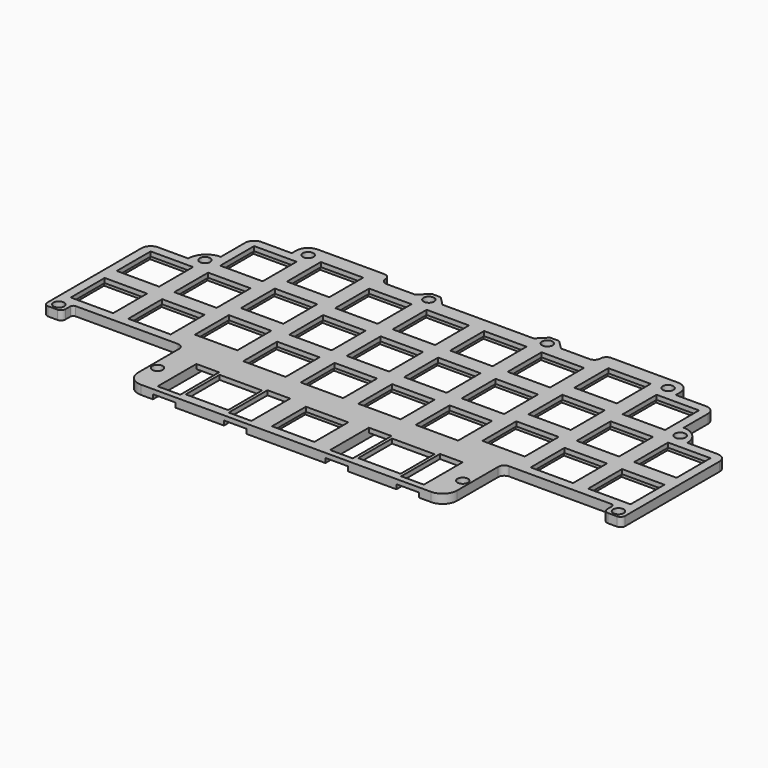
from build123d import *

# Parameters (mm, degrees)
PAD004_DEPTH    = 3
SKETCH023_W     = 14.05
SKETCH023_H     = 14.05
SKETCH023_W_2   = 7.5
SKETCH023_H_2   = 16.05
POCKET013_DEPTH = 5
SKETCH024_W     = 16
SKETCH024_H     = 16
POCKET014_DEPTH = 1.5
SKETCH027_R     = 1.75
POCKET015_DEPTH = 5


with BuildPart() as part:
    # Sketch028 → Pad004 (new body)
    with BuildSketch(Plane.XY):
        with BuildLine():
            Line((-52.875, -5.2), (-52.875, 11.8125))
            ThreePointArc((-52.875, 11.8125), (-53.460786, 13.226714), (-54.875, 13.8125))
            Line((-54.875, 13.8125), (-88.725, 13.8125))
            ThreePointArc((-88.725, 13.8125), (-89.432107, 13.519607), (-89.725, 12.8125))
            Line((-89.725, 12.8125), (-89.725, 10.8125))
            ThreePointArc((-91.225, 9.3125), (-90.16434, 9.75184), (-89.725, 10.8125))
            Line((-91.225, 9.3125), (-94.225, 9.3125))
            ThreePointArc((-95.725, 10.8125), (-95.28566, 9.75184), (-94.225, 9.3125))
            Line((-95.725, 10.8125), (-95.725, 49.8625))
            ThreePointArc((-92.725, 52.8625), (-94.84632, 51.98382), (-95.725, 49.8625))
            Line((-92.725, 52.8625), (-82.675, 52.8625))
            ThreePointArc((-76.675, 58.8625), (-80.917641, 57.105141), (-82.675, 52.8625))
            Line((-76.675, 58.8625), (-76.675, 68.9125))
            ThreePointArc((-73.675, 71.9125), (-75.79632, 71.03382), (-76.675, 68.9125))
            Line((-73.675, 71.9125), (-63.625, 71.9125))
            Line((-63.625, 73.7225), (-63.625, 71.9125))
            ThreePointArc((-59.625, 77.7225), (-62.453427, 76.550927), (-63.625, 73.7225))
            Line((-59.625, 77.7225), (-37.625, 77.7225))
            ThreePointArc((-35.625, 75.7225), (-36.210786, 77.136714), (-37.625, 77.7225))
            ThreePointArc((-35.625, 75.7225), (-35.039214, 74.308286), (-33.625, 73.7225))
            Line((-33.625, 73.7225), (-24.125, 73.7225))
            Line((-24.125, 73.7225), (-21.125, 76.7225))
            Line((-21.125, 76.7225), (-18.125, 76.7225))
            Line((-18.125, 76.7225), (-15.125, 73.7225))
            Line((-15.125, 73.7225), (15.125, 73.7225))
            Line((15.125, 73.7225), (18.125, 76.7225))
            Line((18.125, 76.7225), (21.125, 76.7225))
            Line((21.125, 76.7225), (24.125, 73.7225))
            Line((24.125, 73.7225), (33.625, 73.7225))
            ThreePointArc((33.625, 73.7225), (35.039214, 74.308286), (35.625, 75.7225))
            ThreePointArc((37.625, 77.7225), (36.210786, 77.136714), (35.625, 75.7225))
            Line((37.625, 77.7225), (59.625, 77.7225))
            ThreePointArc((63.625, 73.7225), (62.453427, 76.550927), (59.625, 77.7225))
            Line((63.625, 73.7225), (63.625, 71.9125))
            Line((63.625, 71.9125), (73.675, 71.9125))
            ThreePointArc((76.675, 68.9125), (75.79632, 71.03382), (73.675, 71.9125))
            Line((76.675, 68.9125), (76.675, 58.8625))
            ThreePointArc((82.675, 52.8625), (80.917641, 57.105141), (76.675, 58.8625))
            Line((82.675, 52.8625), (92.725, 52.8625))
            ThreePointArc((95.725, 49.8625), (94.84632, 51.98382), (92.725, 52.8625))
            Line((95.725, 49.8625), (95.725, 10.8125))
            ThreePointArc((94.225, 9.3125), (95.28566, 9.75184), (95.725, 10.8125))
            Line((94.225, 9.3125), (91.225, 9.3125))
            ThreePointArc((89.725, 10.8125), (90.16434, 9.75184), (91.225, 9.3125))
            Line((89.725, 10.8125), (89.725, 12.8125))
            ThreePointArc((89.725, 12.8125), (89.432107, 13.519607), (88.725, 13.8125))
            Line((88.725, 13.8125), (54.875, 13.8125))
            ThreePointArc((54.875, 13.8125), (53.460786, 13.226714), (52.875, 11.8125))
            Line((52.875, 11.8125), (52.875, -5.2))
            ThreePointArc((48.075, -10), (51.469113, -8.594113), (52.875, -5.2))
            Line((48.075, -10), (-48.075, -10))
            ThreePointArc((-52.875, -5.2), (-51.469113, -8.594113), (-48.075, -10))
        make_face()
    extrude(amount=PAD004_DEPTH)

    # Sketch023 → Pocket013 (cut)
    with BuildSketch(Plane.XY):
        with Locations((-85.725, 42.8625)):
            Rectangle(SKETCH023_W, SKETCH023_H)
        with Locations((-85.725, 23.8125)):
            Rectangle(SKETCH023_W, SKETCH023_H)
        with Locations((-66.675, 23.8125)):
            Rectangle(SKETCH023_W, SKETCH023_H)
        with Locations((-66.675, 42.8625)):
            Rectangle(SKETCH023_W, SKETCH023_H)
        with Locations((-66.675, 61.9125)):
            Rectangle(SKETCH023_W, SKETCH023_H)
        with Locations((-47.625, 65.7225)):
            Rectangle(SKETCH023_W, SKETCH023_H)
        with Locations((-47.625, 46.6725)):
            Rectangle(SKETCH023_W, SKETCH023_H)
        with Locations((-47.625, 27.6225)):
            Rectangle(SKETCH023_W, SKETCH023_H)
        with Locations((-28.575, 23.8125)):
            Rectangle(SKETCH023_W, SKETCH023_H)
        with Locations((-28.575, 42.8625)):
            Rectangle(SKETCH023_W, SKETCH023_H)
        with Locations((-28.575, 61.9125)):
            Rectangle(SKETCH023_W, SKETCH023_H)
        with Locations((-9.525, 61.9125)):
            Rectangle(SKETCH023_W, SKETCH023_H)
        with Locations((9.525, 61.9125)):
            Rectangle(SKETCH023_W, SKETCH023_H)
        with Locations((28.575, 61.9125)):
            Rectangle(SKETCH023_W, SKETCH023_H)
        with Locations((47.625, 65.7225)):
            Rectangle(SKETCH023_W, SKETCH023_H)
        with Locations((66.675, 61.9125)):
            Rectangle(SKETCH023_W, SKETCH023_H)
        with Locations((-9.525, 42.8625)):
            Rectangle(SKETCH023_W, SKETCH023_H)
        with Locations((-9.525, 23.8125)):
            Rectangle(SKETCH023_W, SKETCH023_H)
        with Locations((9.525, 42.8625)):
            Rectangle(SKETCH023_W, SKETCH023_H)
        with Locations((28.575, 42.8625)):
            Rectangle(SKETCH023_W, SKETCH023_H)
        with Locations((9.525, 23.8125)):
            Rectangle(SKETCH023_W, SKETCH023_H)
        with Locations((28.575, 23.8125)):
            Rectangle(SKETCH023_W, SKETCH023_H)
        with Locations((47.625, 46.6725)):
            Rectangle(SKETCH023_W, SKETCH023_H)
        with Locations((66.675, 42.8625)):
            Rectangle(SKETCH023_W, SKETCH023_H)
        with Locations((85.725, 42.8625)):
            Rectangle(SKETCH023_W, SKETCH023_H)
        with Locations((47.625, 27.6225)):
            Rectangle(SKETCH023_W, SKETCH023_H)
        with Locations((66.675, 23.8125)):
            Rectangle(SKETCH023_W, SKETCH023_H)
        with Locations((85.725, 23.8125)):
            Rectangle(SKETCH023_W, SKETCH023_H)
        with Locations((-28.575, 0)):
            Rectangle(SKETCH023_W, SKETCH023_H)
        Rectangle(SKETCH023_W, SKETCH023_H)
        with Locations((28.575, 0)):
            Rectangle(SKETCH023_W, SKETCH023_H)
        with Locations((-40.35, 0)):
            Rectangle(SKETCH023_W_2, SKETCH023_H_2)
        with Locations((-16.8, 0)):
            Rectangle(SKETCH023_W_2, SKETCH023_H_2)
        with Locations((16.8, 0)):
            Rectangle(SKETCH023_W_2, SKETCH023_H_2)
        with Locations((40.35, 0)):
            Rectangle(SKETCH023_W_2, SKETCH023_H_2)
    extrude(amount=POCKET013_DEPTH, mode=Mode.SUBTRACT)

    # Sketch024 → Pocket014 (cut)
    with BuildSketch(Plane.XY):
        with Locations((-85.725, 42.8625)):
            Rectangle(SKETCH024_W, SKETCH024_H)
        with Locations((-85.725, 23.8125)):
            Rectangle(SKETCH024_W, SKETCH024_H)
        with Locations((-66.675, 23.8125)):
            Rectangle(SKETCH024_W, SKETCH024_H)
        with Locations((-66.675, 42.8625)):
            Rectangle(SKETCH024_W, SKETCH024_H)
        with Locations((-66.675, 61.9125)):
            Rectangle(SKETCH024_W, SKETCH024_H)
        with Locations((-47.625, 65.7225)):
            Rectangle(SKETCH024_W, SKETCH024_H)
        with Locations((-47.625, 46.6725)):
            Rectangle(SKETCH024_W, SKETCH024_H)
        with Locations((-47.625, 27.6225)):
            Rectangle(SKETCH024_W, SKETCH024_H)
        with Locations((-28.575, 23.8125)):
            Rectangle(SKETCH024_W, SKETCH024_H)
        with Locations((-28.575, 42.8625)):
            Rectangle(SKETCH024_W, SKETCH024_H)
        with Locations((-28.575, 61.9125)):
            Rectangle(SKETCH024_W, SKETCH024_H)
        with Locations((-9.525, 61.9125)):
            Rectangle(SKETCH024_W, SKETCH024_H)
        with Locations((9.525, 61.9125)):
            Rectangle(SKETCH024_W, SKETCH024_H)
        with Locations((28.575, 61.9125)):
            Rectangle(SKETCH024_W, SKETCH024_H)
        with Locations((47.625, 65.7225)):
            Rectangle(SKETCH024_W, SKETCH024_H)
        with Locations((66.675, 61.9125)):
            Rectangle(SKETCH024_W, SKETCH024_H)
        with Locations((-9.525, 42.8625)):
            Rectangle(SKETCH024_W, SKETCH024_H)
        with Locations((-9.525, 23.8125)):
            Rectangle(SKETCH024_W, SKETCH024_H)
        with Locations((9.525, 42.8625)):
            Rectangle(SKETCH024_W, SKETCH024_H)
        with Locations((28.575, 42.8625)):
            Rectangle(SKETCH024_W, SKETCH024_H)
        with Locations((9.525, 23.8125)):
            Rectangle(SKETCH024_W, SKETCH024_H)
        with Locations((28.575, 23.8125)):
            Rectangle(SKETCH024_W, SKETCH024_H)
        with Locations((47.625, 46.6725)):
            Rectangle(SKETCH024_W, SKETCH024_H)
        with Locations((66.675, 42.8625)):
            Rectangle(SKETCH024_W, SKETCH024_H)
        with Locations((85.725, 42.8625)):
            Rectangle(SKETCH024_W, SKETCH024_H)
        with Locations((47.625, 27.6225)):
            Rectangle(SKETCH024_W, SKETCH024_H)
        with Locations((66.675, 23.8125)):
            Rectangle(SKETCH024_W, SKETCH024_H)
        with Locations((85.725, 23.8125)):
            Rectangle(SKETCH024_W, SKETCH024_H)
        Rectangle(SKETCH024_W, SKETCH024_H)
        Polygon((-44.1, 14.525), (-13.05, 14.525), (-13.05, -11.025), (-20.55, -11.025), (-20.55, -8.025), (-36.6, -8.025), (-36.6, -11.025), (-44.1, -11.025), align=None)
        Polygon((13.05, -11.025), (20.55, -11.025), (20.55, -8.025), (36.6, -8.025), (36.6, -11.025), (44.1, -11.025), (44.1, 14.525), (13.05, 14.525), align=None)
    extrude(amount=POCKET014_DEPTH, mode=Mode.SUBTRACT)

    # Sketch027 → Pocket015 (cut)
    with BuildSketch(Plane.XY):
        with Locations((-92.725, 11.8125)):
            Circle(SKETCH027_R)
        with Locations((-78.725, 54.8625)):
            Circle(SKETCH027_R)
        with Locations((-59.625, 73.7225)):
            Circle(SKETCH027_R)
        with Locations((-50.575, 0)):
            Circle(SKETCH027_R)
        with Locations((50.575, 0)):
            Circle(SKETCH027_R)
        with Locations((92.725, 11.8125)):
            Circle(SKETCH027_R)
        with Locations((78.725, 54.8625)):
            Circle(SKETCH027_R)
        with Locations((59.625, 73.7225)):
            Circle(SKETCH027_R)
        with Locations((-19.625, 73.7225)):
            Circle(SKETCH027_R)
        with Locations((19.625, 73.7225)):
            Circle(SKETCH027_R)
    extrude(amount=POCKET015_DEPTH, mode=Mode.SUBTRACT)


solid = part.part
